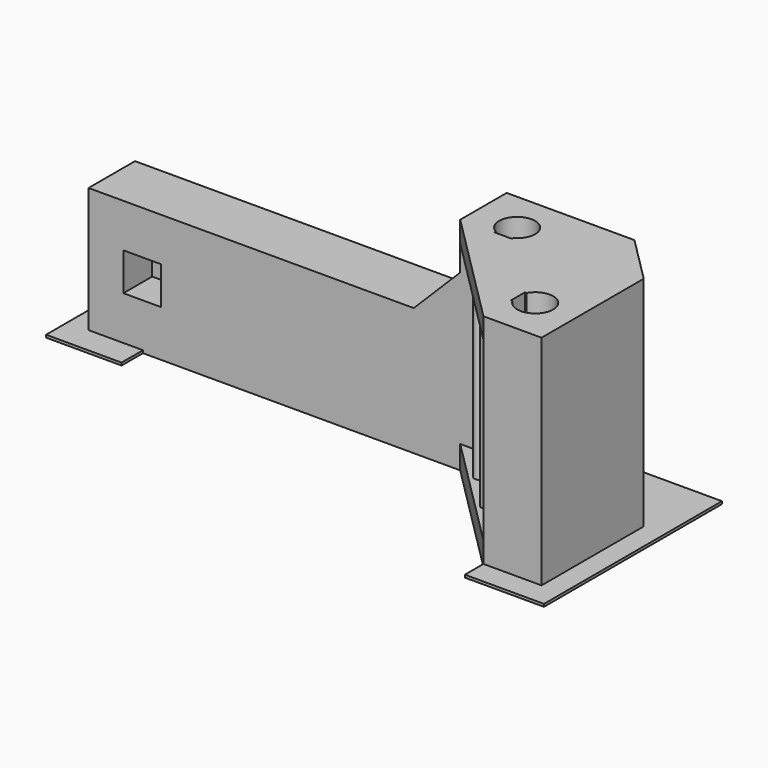
from build123d import *

# Parameters (mm, degrees)
PAD_DEPTH     = 17
PAD001_DEPTH  = 2
PAD002_DEPTH  = 1.8
SKETCH003_W   = 32
SKETCH003_H   = 11
PAD003_DEPTH  = 5
SKETCH004_W   = 3.25
SKETCH004_H   = 3.25
POCKET_DEPTH  = 3.1
SKETCH005_W   = 6.497684
SKETCH005_H   = 9.461539
SKETCH005_W_2 = 6.809606
SKETCH005_H_2 = 19.151065
PAD004_DEPTH  = 0.225
CHAMFER_SIZE  = 4
SKETCH006_R   = 0.375
PAD005_DEPTH  = 16


with BuildPart() as part:
    # Sketch → Pad (new body)
    with BuildSketch(Plane.XY):
        with BuildLine():
            Line((-10, 0), (-10, 5))
            Line((-10, 5), (5, 5))
            Line((5, 5), (5, -10))
            Line((5, -10), (0, -10))
            Line((0, -7.05), (0, -10))
            Line((0, -7.05), (0.143534, -7.05))
            ThreePointArc((0.143534, -7.05), (3.05, -6.3), (0.143534, -5.55))
            Line((0, -5.55), (0.143534, -5.55))
            Line((0, 0), (0, -5.55))
            Line((0, 0), (-5.55, 0))
            Line((-5.55, 0), (-5.55, 0.143534))
            ThreePointArc((-5.55, 0.143534), (-6.3, 3.05), (-7.05, 0.143534))
            Line((-7.05, 0), (-7.05, 0.143534))
            Line((-10, 0), (-7.05, 0))
        make_face()
    extrude(amount=-PAD_DEPTH)

    # Sketch001 (on Face16 of Pad) → Pad001 (join)
    with BuildSketch(Plane(origin=(0, 0, -17), x_dir=(1, 0, 0), z_dir=(0, 0, -1))):
        Polygon((5, -5), (-10, -5), (-10, 0), (0, 10), (5, 10), align=None)
    extrude(amount=PAD001_DEPTH)

    # Sketch002 (on Face1 of Pad001) → Pad002 (join)
    with BuildSketch(Plane.XY):
        Polygon((0, -10), (0, 0), (-10, 0), align=None)
    extrude(amount=-PAD002_DEPTH)

    # Sketch003 (on Face10 of Pad002) → Pad003 (join)
    with BuildSketch(Plane.XZ):
        with Locations((-26, -13.5)):
            Rectangle(SKETCH003_W, SKETCH003_H)
    extrude(amount=-PAD003_DEPTH)

    # Sketch004 (on Face22 of Pad003) → Pocket (cut)
    with BuildSketch(Plane.XZ):
        with Locations((-37.375, -13.375)):
            Rectangle(SKETCH004_W, SKETCH004_H)
    extrude(amount=-POCKET_DEPTH, mode=Mode.SUBTRACT)

    # Sketch005 → Pad004 (join)
    with BuildSketch(Plane(origin=(0, 0, -19), x_dir=(1, 0, 0), z_dir=(0, 0, -1))):
        with Locations((-40.563391, -2.425933)):
            Rectangle(SKETCH005_W, SKETCH005_H)
        with Locations((3.404803, 2.422745)):
            Rectangle(SKETCH005_W_2, SKETCH005_H_2)
    extrude(amount=-PAD004_DEPTH)

    # Chamfer
    chamfer_edges = [part.edges().sort_by_distance(p)[0] for p in [
        (-10, 2.5, -8),
        (5, 5, -9.3875),
    ]]
    chamfer(chamfer_edges, length=CHAMFER_SIZE)

    # Sketch006 (on Face29 of Chamfer) → Pad005 (join)
    with BuildSketch(Plane.XY.offset(-17)):
        with Locations((-6, -3)):
            Circle(SKETCH006_R)
        with Locations((-3, -6)):
            Circle(SKETCH006_R)
    extrude(amount=PAD005_DEPTH)


solid = part.part
